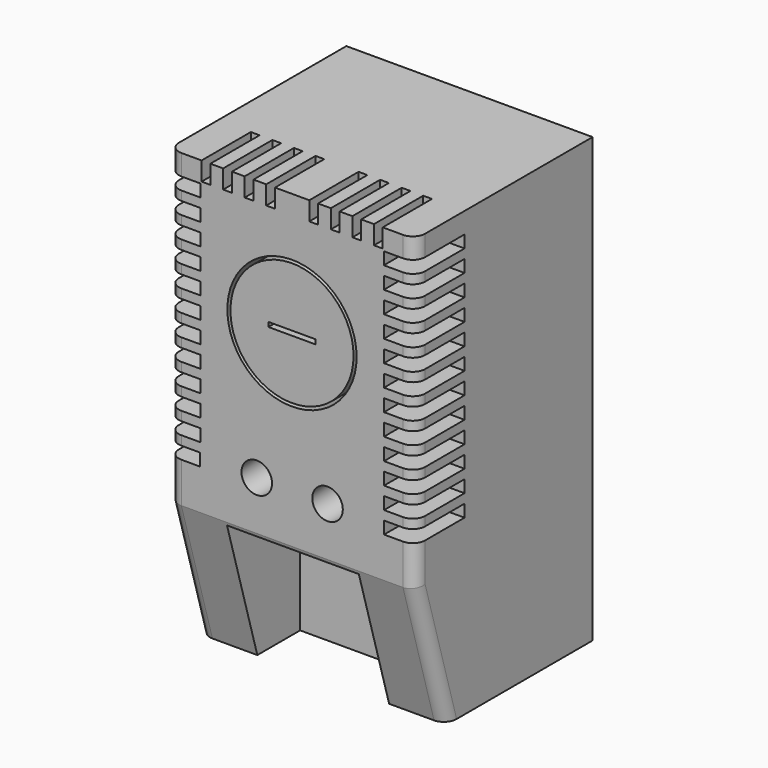
from build123d import *

# Parameters (mm, degrees)
F0_W      = 40
F0_H      = 72
F1_DEPTH  = 36
F2_W      = 5.110045895
F2_H      = 2.0075347275
F2_W_2    = 5.1063122059
F2_W_3    = 5.1025785169
F2_W_4    = 5.0988448278
F2_W_5    = 5.0951111388
F2_W_6    = 5.0913774498
F2_W_7    = 5.0876437607
F2_W_8    = 5.0839100717
F2_W_9    = 5.0801763826
F2_W_10   = 5.0764426936
F2_W_11   = 5.0727090045
F2_W_12   = 5.0689753155
F2_W_13   = 1.42415151
F2_H_2    = 3.0305987895
F2_R      = 10.5
F2_R_2    = 10
F3_DEPTH  = 10
F4_W      = 7.6698157936
F4_H      = 0.7368782535
F5_DEPTH  = 2
F6_W      = 21.4133905619
F6_H      = 21.0468042642
F7_DEPTH  = 15
F9_DEPTH  = 50
F10_R     = 2.4823069634
F11_DEPTH = 5
F12_R     = 2


with BuildPart() as f1:
    # F0 (on Front) → F1 (new body)
    with BuildSketch(Plane.XZ):
        with Locations((-13.0052822828, -9.5213338137)):
            Rectangle(F0_W, F0_H)
    extrude(amount=F1_DEPTH)

    # F2 (on face) → F3 (cut)
    with BuildSketch(Plane.XZ.offset(36)):
        with Locations((-30.4502593353, 22.1199980006)):
            Rectangle(F2_W, F2_H)
        with Locations((-30.4521261799, 18.6199999921)):
            Rectangle(F2_W_2, F2_H)
        with Locations((-30.4539930244, 15.1200019835)):
            Rectangle(F2_W_3, F2_H)
        with Locations((-30.4558598689, 11.620003975)):
            Rectangle(F2_W_4, F2_H)
        with Locations((-30.4577267134, 8.1200059665)):
            Rectangle(F2_W_5, F2_H)
        with Locations((-30.459593558, 4.620007958)):
            Rectangle(F2_W_6, F2_H)
        with Locations((-30.4614604025, 1.1200099495)):
            Rectangle(F2_W_7, F2_H)
        with Locations((-30.463327247, -2.379988059)):
            Rectangle(F2_W_8, F2_H)
        with Locations((-30.4651940915, -5.8799860675)):
            Rectangle(F2_W_9, F2_H)
        with Locations((-30.467060936, -9.379984076)):
            Rectangle(F2_W_10, F2_H)
        with Locations((-30.4689277806, -12.8799820845)):
            Rectangle(F2_W_11, F2_H)
        with Locations((-30.4707946251, -16.379980093)):
            Rectangle(F2_W_12, F2_H)
        with Locations((4.4602300594, -16.379980093)):
            Rectangle(F2_W_12, F2_H)
        with Locations((4.4583632149, -12.8799820845)):
            Rectangle(F2_W_11, F2_H)
        with Locations((4.4564963704, -9.379984076)):
            Rectangle(F2_W_10, F2_H)
        with Locations((4.4546295259, -5.8799860675)):
            Rectangle(F2_W_9, F2_H)
        with Locations((4.4508958368, 1.1200099495)):
            Rectangle(F2_W_7, F2_H)
        with Locations((4.4490289923, 4.620007958)):
            Rectangle(F2_W_6, F2_H)
        with Locations((4.4471621478, 8.1200059665)):
            Rectangle(F2_W_5, F2_H)
        with Locations((4.4452953032, 11.620003975)):
            Rectangle(F2_W_4, F2_H)
        with Locations((4.4434284587, 15.1200019835)):
            Rectangle(F2_W_3, F2_H)
        with Locations((4.4415616142, 18.6199999921)):
            Rectangle(F2_W_2, F2_H)
        with Locations((4.4396947697, 22.1199980006)):
            Rectangle(F2_W, F2_H)
        with Locations((0.9947177172, 24.9633667916)):
            Rectangle(F2_W_13, F2_H_2)
        with Locations((-2.5052822828, 24.9633667916)):
            Rectangle(F2_W_13, F2_H_2)
        with Locations((-6.0052822828, 24.9633667916)):
            Rectangle(F2_W_13, F2_H_2)
        with Locations((-9.5052822828, 24.9633667916)):
            Rectangle(F2_W_13, F2_H_2)
        with Locations((-16.5052822828, 24.9633667916)):
            Rectangle(F2_W_13, F2_H_2)
        with Locations((-20.0052822828, 24.9633667916)):
            Rectangle(F2_W_13, F2_H_2)
        with Locations((-23.5052822828, 24.9633667916)):
            Rectangle(F2_W_13, F2_H_2)
        with Locations((-27.0052822828, 24.9633667916)):
            Rectangle(F2_W_13, F2_H_2)
        with Locations((4.4527626813, -2.379988059)):
            Rectangle(F2_W_8, F2_H)
        with Locations((-13.0316922441, 6.5578259528)):
            Circle(F2_R)
        with Locations((-13.0316922441, 6.5578259528)):
            Circle(F2_R_2, mode=Mode.SUBTRACT)
    extrude(amount=-F3_DEPTH, mode=Mode.SUBTRACT)

    # F4 (on face) → F5 (cut)
    with BuildSketch(Plane.XZ.offset(36)):
        with Locations((-13.0316922441, 6.5578259528)):
            Rectangle(F4_W, F4_H)
    extrude(amount=-F5_DEPTH, mode=Mode.SUBTRACT)

    # F6 (on face) → F7 (cut)
    with BuildSketch(Plane.XZ.offset(36)):
        with Locations((-13.0052822828, -34.9979316816)):
            Rectangle(F6_W, F6_H)
    extrude(amount=-F7_DEPTH, mode=Mode.SUBTRACT)

    # F8 (on face) → F9 (cut)
    with BuildSketch(Plane.YZ.offset(6.9947177172)):
        Polygon((-29.6883769333, -45.5213338137), (-36, -23.9366423339), (-36, -45.5213338137), align=None)
    extrude(amount=-F9_DEPTH, mode=Mode.SUBTRACT)

    # F10 (on face) → F11 (cut)
    with BuildSketch(Plane.XZ.offset(36)):
        with Locations((-18.7515150756, -15.9784462303)):
            Circle(F10_R)
        with Locations((-7.2590494901, -15.9784462303)):
            Circle(F10_R)
    extrude(amount=-F11_DEPTH, mode=Mode.SUBTRACT)

    # F12
    f12_edges = [f1.edges().sort_by_distance(p)[0] for p in [
        (-33.005282, -36, 24.801216),
        (-33.005282, -36, 20.369999),
        (-33.005282, -36, 16.870001),
        (-33.005282, -36, 13.370003),
        (-33.005282, -36, 9.870005),
        (-33.005282, -36, 6.370007),
        (-33.005282, -36, 2.870009),
        (-33.005282, -36, -0.629989),
        (-33.005282, -36, -4.129987),
        (-33.005282, -36, -7.629985),
        (-33.005282, -36, -11.129983),
        (-33.005282, -36, -14.629981),
        (-33.005282, -36, -20.660195),
        (-33.005282, -32.844188, -34.728988),
        (6.994718, -36, 24.801216),
        (6.994718, -36, 20.369999),
        (6.994718, -36, 16.870001),
        (6.994718, -36, 13.370003),
        (6.994718, -36, 9.870005),
        (6.994718, -36, 6.370007),
        (6.994718, -36, 2.870009),
        (6.994718, -36, -0.629989),
        (6.994718, -36, -4.129987),
        (6.994718, -36, -7.629985),
        (6.994718, -36, -11.129983),
        (6.994718, -36, -14.629981),
        (6.994718, -36, -20.660195),
        (6.994718, -32.844188, -34.728988),
    ]]
    fillet(f12_edges, radius=F12_R)


solid = f1.part
